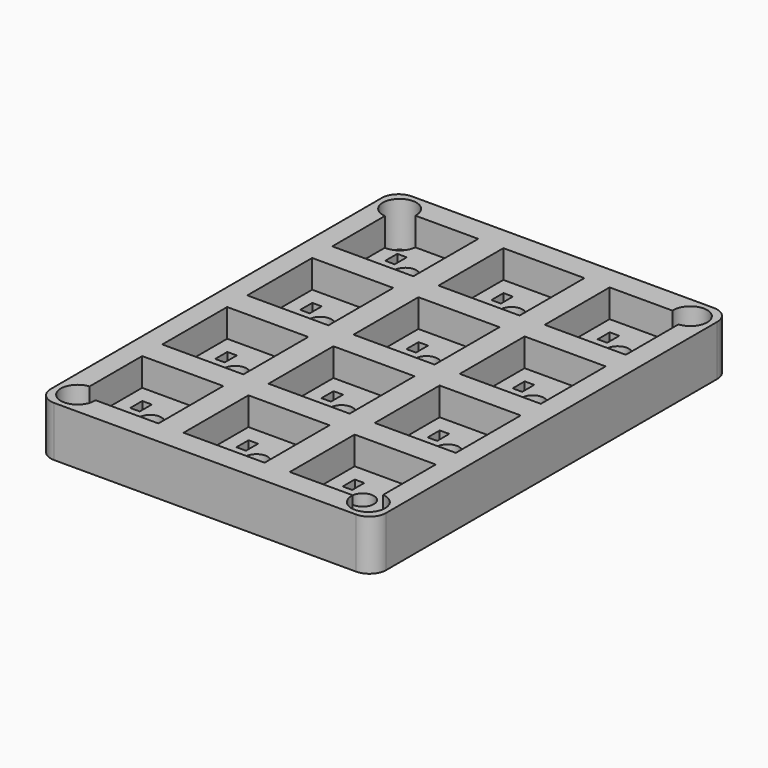
from build123d import *

# Parameters (mm, degrees)
SKETCH006_W            = 60
SKETCH006_H            = 80
PAD001_DEPTH           = 9
SKETCH007_W            = 14.5
SKETCH007_H            = 14.5
POCKET005_DEPTH        = 5
SKETCH008_R            = 2
POCKET006_DEPTH        = 5
SKETCH009_W            = 1.7
SKETCH009_H            = 2.7
POCKET007_DEPTH        = 3
LINEARPATTERN_COUNT    = 3
LINEARPATTERN_PITCH    = 19
SKETCH010_W            = 1
SKETCH010_H            = 1
POCKET008_DEPTH        = 5
LINEARPATTERN001_COUNT = 3
LINEARPATTERN001_PITCH = 19
FILLET001_R            = 3
SKETCH011_R            = 1.6
POCKET009_DEPTH        = 9
SKETCH012_R            = 3
POCKET010_DEPTH        = 8


with BuildPart() as part:
    # Sketch006 → Pad001 (new body)
    with BuildSketch(Plane.XY):
        Rectangle(SKETCH006_W, SKETCH006_H)
    extrude(amount=PAD001_DEPTH)

    # Sketch007 (on Face6 of Pad001) → Pocket005 (cut)
    with BuildSketch(Plane.XY.offset(9)):
        with Locations((-19, 28.5)):
            Rectangle(SKETCH007_W, SKETCH007_H)
        with Locations((0, 28.5)):
            Rectangle(SKETCH007_W, SKETCH007_H)
        with Locations((19, 28.5)):
            Rectangle(SKETCH007_W, SKETCH007_H)
        with Locations((-19, 9.5)):
            Rectangle(SKETCH007_W, SKETCH007_H)
        with Locations((0, 9.5)):
            Rectangle(SKETCH007_W, SKETCH007_H)
        with Locations((19, 9.5)):
            Rectangle(SKETCH007_W, SKETCH007_H)
        with Locations((-19, -9.5)):
            Rectangle(SKETCH007_W, SKETCH007_H)
        with Locations((0, -9.5)):
            Rectangle(SKETCH007_W, SKETCH007_H)
        with Locations((19, -9.5)):
            Rectangle(SKETCH007_W, SKETCH007_H)
        with Locations((-19, -28.5)):
            Rectangle(SKETCH007_W, SKETCH007_H)
        with Locations((0, -28.5)):
            Rectangle(SKETCH007_W, SKETCH007_H)
        with Locations((19, -28.5)):
            Rectangle(SKETCH007_W, SKETCH007_H)
    extrude(amount=-POCKET005_DEPTH, mode=Mode.SUBTRACT)

    # Sketch008 (on Face62 of Pocket005) → Pocket006 (cut)
    with BuildSketch(Plane.XY.offset(4)):
        with Locations((-19, 28.5)):
            Circle(SKETCH008_R)
        with Locations((0, 28.5)):
            Circle(SKETCH008_R)
        with Locations((19, 28.5)):
            Circle(SKETCH008_R)
        with Locations((-19, 9.5)):
            Circle(SKETCH008_R)
        with Locations((0, 9.5)):
            Circle(SKETCH008_R)
        with Locations((19, 9.5)):
            Circle(SKETCH008_R)
        with Locations((-19, -9.5)):
            Circle(SKETCH008_R)
        with Locations((0, -9.5)):
            Circle(SKETCH008_R)
        with Locations((19, -9.5)):
            Circle(SKETCH008_R)
        with Locations((-19, -28.5)):
            Circle(SKETCH008_R)
        with Locations((0, -28.5)):
            Circle(SKETCH008_R)
        with Locations((19, -28.5)):
            Circle(SKETCH008_R)
    extrude(amount=-POCKET006_DEPTH, mode=Mode.SUBTRACT)

    # Sketch009 (on Face74 of Pocket006) → Pocket007 (cut)
    with BuildSketch(Plane.XY.offset(4)):
        with Locations((-22.9, 31.3)):
            Rectangle(SKETCH009_W, SKETCH009_H)
        with Locations((-16.4, 33.9)):
            Rectangle(SKETCH009_W, SKETCH009_H)
        with Locations((-22.9, 12.3)):
            Rectangle(SKETCH009_W, SKETCH009_H)
        with Locations((-16.4, 14.9)):
            Rectangle(SKETCH009_W, SKETCH009_H)
        with Locations((-22.9, -6.7)):
            Rectangle(SKETCH009_W, SKETCH009_H)
        with Locations((-16.4, -4.1)):
            Rectangle(SKETCH009_W, SKETCH009_H)
        with Locations((-22.9, -25.7)):
            Rectangle(SKETCH009_W, SKETCH009_H)
        with Locations((-16.4, -23.1)):
            Rectangle(SKETCH009_W, SKETCH009_H)
    pocket007 = extrude(amount=-POCKET007_DEPTH, mode=Mode.SUBTRACT)

    # LinearPattern: Pocket007 ×3
    with Locations(*[(i * LINEARPATTERN_PITCH, 0, 0) for i in range(1, LINEARPATTERN_COUNT)]):
        add(pocket007, mode=Mode.SUBTRACT)

    # Sketch010 (on Face189 of LinearPattern) → Pocket008 (cut)
    with BuildSketch(Plane.XY.offset(1)):
        with Locations((-22.9, 32.15)):
            Rectangle(SKETCH010_W, SKETCH010_H)
        with Locations((-16.4, 34.75)):
            Rectangle(SKETCH010_W, SKETCH010_H)
        with Locations((-22.9, 13.15)):
            Rectangle(SKETCH010_W, SKETCH010_H)
        with Locations((-16.4, 15.75)):
            Rectangle(SKETCH010_W, SKETCH010_H)
        with Locations((-22.9, -5.85)):
            Rectangle(SKETCH010_W, SKETCH010_H)
        with Locations((-16.4, -3.25)):
            Rectangle(SKETCH010_W, SKETCH010_H)
        with Locations((-22.9, -24.85)):
            Rectangle(SKETCH010_W, SKETCH010_H)
        with Locations((-16.4, -22.25)):
            Rectangle(SKETCH010_W, SKETCH010_H)
    pocket008 = extrude(amount=-POCKET008_DEPTH, mode=Mode.SUBTRACT)

    # LinearPattern001: Pocket008 ×3
    with Locations(*[(i * LINEARPATTERN001_PITCH, 0, 0) for i in range(1, LINEARPATTERN001_COUNT)]):
        add(pocket008, mode=Mode.SUBTRACT)

    # Fillet001
    fillet001_edges = [part.edges().sort_by_distance(p)[0] for p in [
        (30, -40, 4.5),
        (30, 40, 4.5),
        (-30, -40, 4.5),
        (-30, 40, 4.5),
    ]]
    fillet(fillet001_edges, radius=FILLET001_R)

    # Sketch011 (on Face5 of Fillet001) → Pocket009 (cut)
    with BuildSketch(Plane.XY.offset(9)):
        with Locations((-26, 36)):
            Circle(SKETCH011_R)
        with Locations((26, 36)):
            Circle(SKETCH011_R)
        with Locations((-26, -36)):
            Circle(SKETCH011_R)
        with Locations((26, -36)):
            Circle(SKETCH011_R)
    extrude(amount=-POCKET009_DEPTH, mode=Mode.SUBTRACT)

    # Sketch012 (on Face5 of Pocket009) → Pocket010 (cut)
    with BuildSketch(Plane.XY.offset(9)):
        with Locations((-26, 36)):
            Circle(SKETCH012_R)
        with Locations((26, 36)):
            Circle(SKETCH012_R)
        with Locations((-26, -36)):
            Circle(SKETCH012_R)
        with Locations((26, -36)):
            Circle(SKETCH012_R)
    extrude(amount=-POCKET010_DEPTH, mode=Mode.SUBTRACT)


with BuildPart() as part_1:
    # Body placement: moved
    add(part.part.moved(Location((0, 0, 10))))


solid = part_1.part
